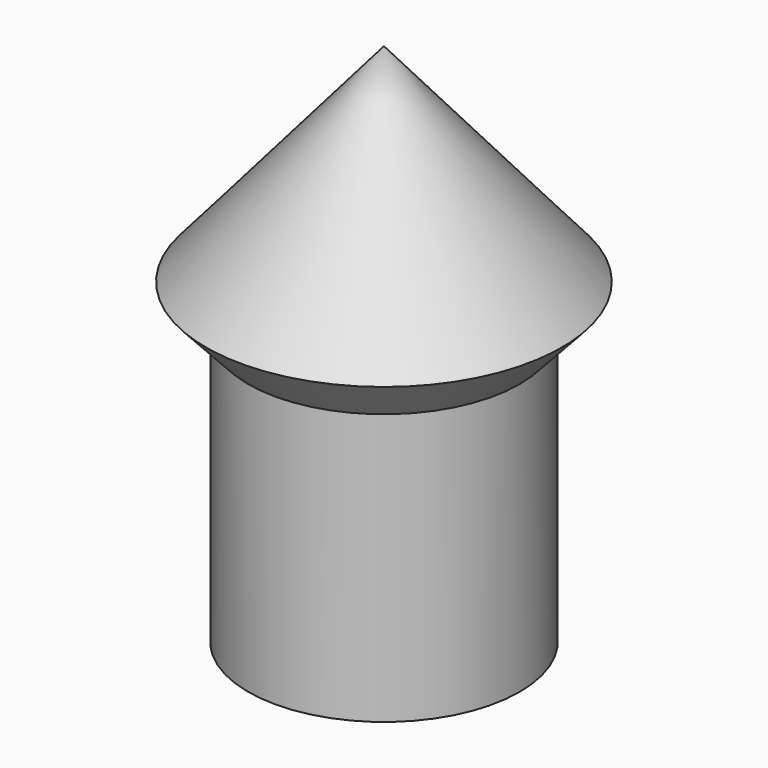
from build123d import *

# Parameters (mm, degrees)
F0_R     = 2.9
F1_DEPTH = 7


with BuildPart() as f1:
    # F0 (on Top) → F1 (new body)
    with BuildSketch(Plane.XY):
        Circle(F0_R)
    extrude(amount=F1_DEPTH)

    # F2 (on Front) → F3 (revolve)
    with BuildSketch(Plane.XZ):
        Polygon((-3.800632, 6.768268), (0, 6.768268), (0, 11.199012), align=None)
        Polygon((0, 2.622543), (0, 6.768268), (-3.800632, 6.768268), align=None)
    revolve(axis=Axis((0, 0, 8.98364), (0, 0, 1)))


solid = f1.part
